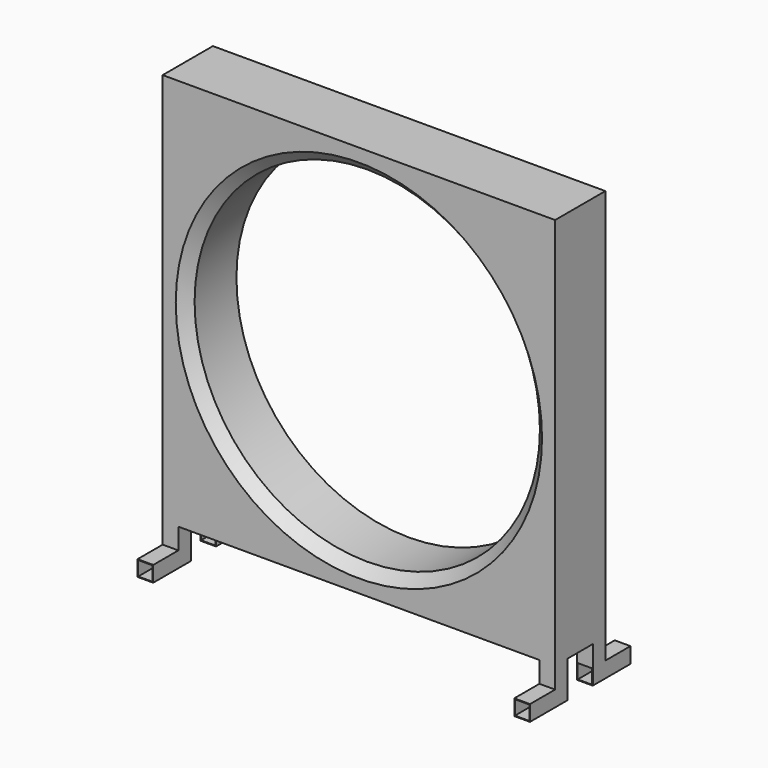
from build123d import *

# Parameters (mm, degrees)
F0_W           = 3810
F0_H           = 3810
F1_DEPTH       = 609.6
F3_D           = 3352.8
F3_CSINK_D     = 3556
F3_CSINK_ANGLE = 90
F4_W           = 152.4
F4_H           = 152.4
F5_DEPTH       = 355.6
F6_W           = 152.4
F6_H           = 152.4
F7_DEPTH       = 304.8
F8_W           = 152.4
F8_H           = 152.4
F9_DEPTH       = 304.8
F11_W          = 139.7
F11_H          = 139.7
F12_DEPTH      = 1270


with BuildPart() as f1:
    # F0 (on Front) → F1 (new body)
    with BuildSketch(Plane.XZ):
        Rectangle(F0_W, F0_H)
    extrude(amount=F1_DEPTH)

    # F3 (through all)
    with Locations(Plane.XZ.offset(609.6)):
        with Locations((0, 0)):
            CounterSinkHole(F3_D / 2, F3_CSINK_D / 2, counter_sink_angle=F3_CSINK_ANGLE)

    # F4 (on face) → F5 (join)
    with BuildSketch(Plane(origin=(0, 0, -1905), x_dir=(1, 0, 0), z_dir=(0, 0, -1))):
        with Locations((-1828.8, 533.4)):
            Rectangle(F4_W, F4_H)
        with Locations((-1828.8, 76.2)):
            Rectangle(F4_W, F4_H)
        with Locations((1828.8, 76.2)):
            Rectangle(F4_W, F4_H)
        with Locations((1828.8, 533.4)):
            Rectangle(F4_W, F4_H)
    extrude(amount=F5_DEPTH)

    # F6 (on face) → F7 (join)
    with BuildSketch(Plane(origin=(0, 0, 0), x_dir=(-1, 0, 0), z_dir=(0, 1, 0))):
        with Locations((-1828.8, -2184.4)):
            Rectangle(F6_W, F6_H)
        with Locations((1828.8, -2184.4)):
            Rectangle(F6_W, F6_H)
    extrude(amount=F7_DEPTH)

    # F8 (on face) → F9 (join)
    with BuildSketch(Plane.XZ.offset(609.6)):
        with Locations((-1828.8, -2184.4)):
            Rectangle(F8_W, F8_H)
        with Locations((1828.8, -2184.4)):
            Rectangle(F8_W, F8_H)
    extrude(amount=F9_DEPTH)

    # F11 (on face) → F12 (cut)
    with BuildSketch(Plane(origin=(0, 304.8, 0), x_dir=(-1, 0, 0), z_dir=(0, 1, 0))):
        with Locations((-1828.8, -2184.4)):
            Rectangle(F11_W, F11_H)
        with Locations((1828.8, -2184.4)):
            Rectangle(F11_W, F11_H)
    extrude(amount=-F12_DEPTH, mode=Mode.SUBTRACT)


solid = f1.part
